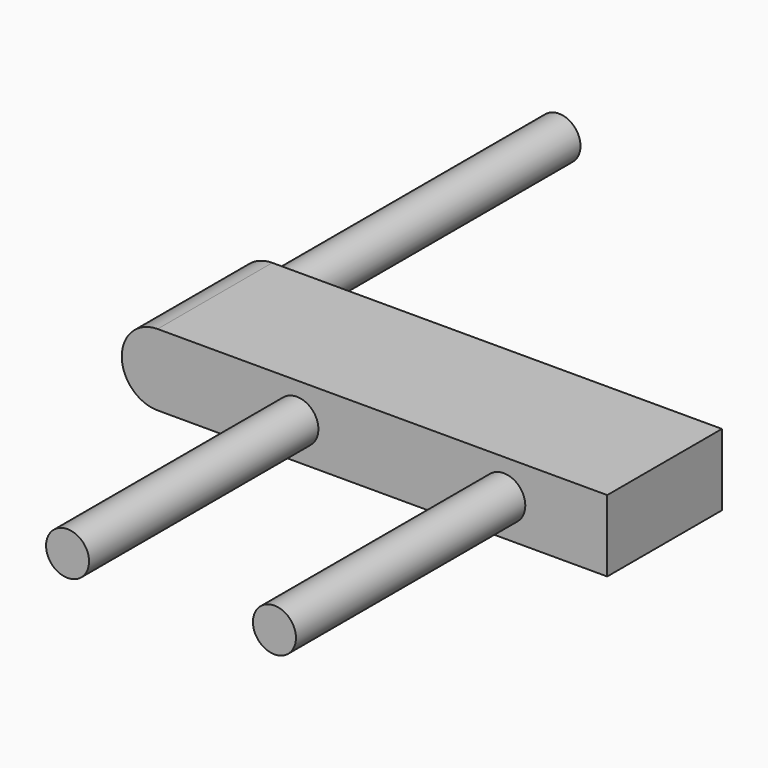
from build123d import *

# Parameters (mm, degrees)
F0_W     = 2.832651
F0_H     = 6.35
F0_R     = 1.905
F1_DEPTH = 12.7
F2_DEPTH = 38.1
F3_DEPTH = 31.75


with BuildPart() as f1:
    # F0 (on Front) → F1 (new body)
    with BuildSketch(Plane.XZ):
        with Locations((49.418978, -5.683978)):
            Rectangle(F0_W, F0_H)
        Polygon((14.173562, -8.858978), (48.002653, -8.858978), (48.002653, -2.508978), (14.173562, -2.508978), (14.173562, -5.683978), align=None)
        with Locations((41.669869, -5.683978)):
            Circle(F0_R, mode=Mode.SUBTRACT)
        with Locations((23.338998, -5.683978)):
            Circle(F0_R, mode=Mode.SUBTRACT)
        with BuildLine():
            Line((10.998562, -8.858978), (14.173562, -8.858978))
            Line((14.173562, -8.858978), (14.173562, -5.683978))
            ThreePointArc((14.173562, -5.683978), (13.243626, -7.929042), (10.998562, -8.858978))
        make_face()
        with BuildLine():
            Line((14.173562, -5.683978), (14.173562, -2.508978))
            Line((14.173562, -2.508978), (10.998562, -2.508978))
            ThreePointArc((10.998562, -2.508978), (13.243626, -3.438914), (14.173562, -5.683978))
        make_face()
        with BuildLine():
            ThreePointArc((10.998562, -8.858978), (13.243626, -7.929042), (14.173562, -5.683978))
            ThreePointArc((14.173562, -5.683978), (13.243626, -3.438914), (10.998562, -2.508978))
            ThreePointArc((10.998562, -2.508978), (7.823562, -5.683978), (10.998562, -8.858978))
        make_face()
        with Locations((10.998562, -5.683978)):
            Circle(F0_R, mode=Mode.SUBTRACT)
        with Locations((23.338998, -5.683978)):
            Circle(F0_R)
        with Locations((41.669869, -5.683978)):
            Circle(F0_R)
        with Locations((10.998562, -5.683978)):
            Circle(F0_R)
    extrude(amount=F1_DEPTH)

    # F0 (on Front) → F2 (join)
    with BuildSketch(Plane.XZ):
        with Locations((23.338998, -5.683978)):
            Circle(F0_R)
        with Locations((41.669869, -5.683978)):
            Circle(F0_R)
    extrude(amount=F2_DEPTH)

    # F0 (on Front) → F3 (join)
    with BuildSketch(Plane.XZ):
        with Locations((10.998562, -5.683978)):
            Circle(F0_R)
    extrude(amount=-F3_DEPTH)


solid = f1.part
